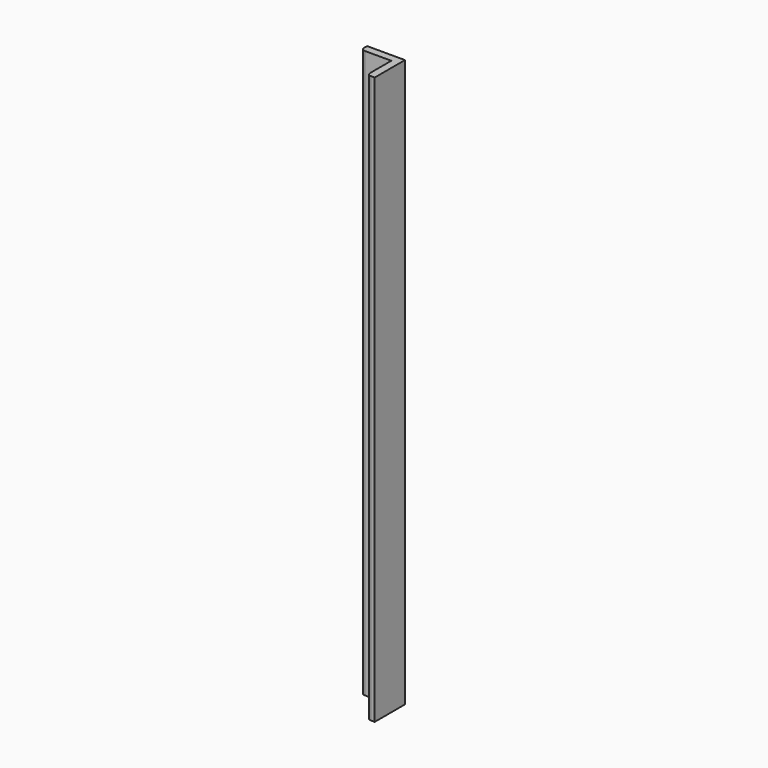
from build123d import *

# Parameters (mm, degrees)
BOX001_W     = 40
BOX001_H     = 40
BOX001_DEPTH = 750
BOX_W        = 50
BOX_H        = 50
BOX_DEPTH    = 750
FILLET_R     = 5
FILLET001_R  = 5


with BuildPart() as cube001:
    # Box001 → Box001 (new body)
    with BuildSketch(Plane.XY):
        with Locations((20, 20)):
            Rectangle(BOX001_W, BOX001_H)
    extrude(amount=BOX001_DEPTH)


with BuildPart() as fillet001:
    # Box → Box (new body)
    with BuildSketch(Plane.XY):
        with Locations((25, 25)):
            Rectangle(BOX_W, BOX_H)
    extrude(amount=BOX_DEPTH)

    # Cut: cut Cube001
    add(cube001.part, mode=Mode.SUBTRACT)

    # Fillet
    fillet_edges = [fillet001.edges().sort_by_distance(p)[0] for p in [
        (0, 40, 375),
    ]]
    fillet(fillet_edges, radius=FILLET_R)

    # Fillet001
    fillet001_edges = [fillet001.edges().sort_by_distance(p)[0] for p in [
        (40, 0, 375),
    ]]
    fillet(fillet001_edges, radius=FILLET001_R)


solid = fillet001.part
